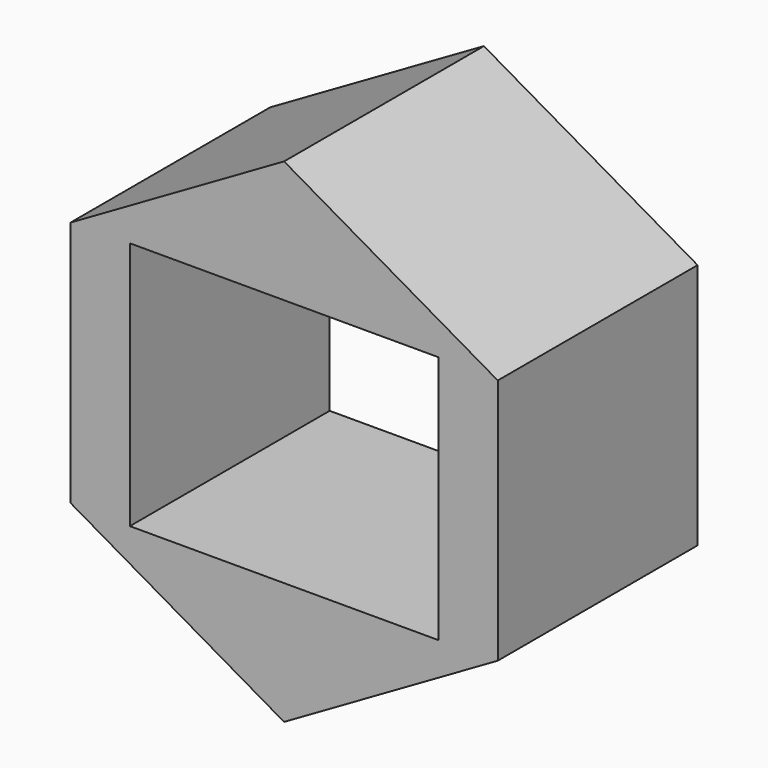
from build123d import *

# Parameters (mm, degrees)
F0_W     = 61.7536
F0_H     = 49.856118
F1_DEPTH = 50


with BuildPart() as f1:
    # F0 (on Front) → F1 (new body)
    with BuildSketch(Plane.XZ):
        Polygon((-42.774282, 24.695743), (-42.774282, -24.695743), (0, -49.391487), (42.774282, -24.695743), (42.774282, 24.695743), (0, 49.391487), align=None)
        Rectangle(F0_W, F0_H, mode=Mode.SUBTRACT)
    extrude(amount=F1_DEPTH)


solid = f1.part
